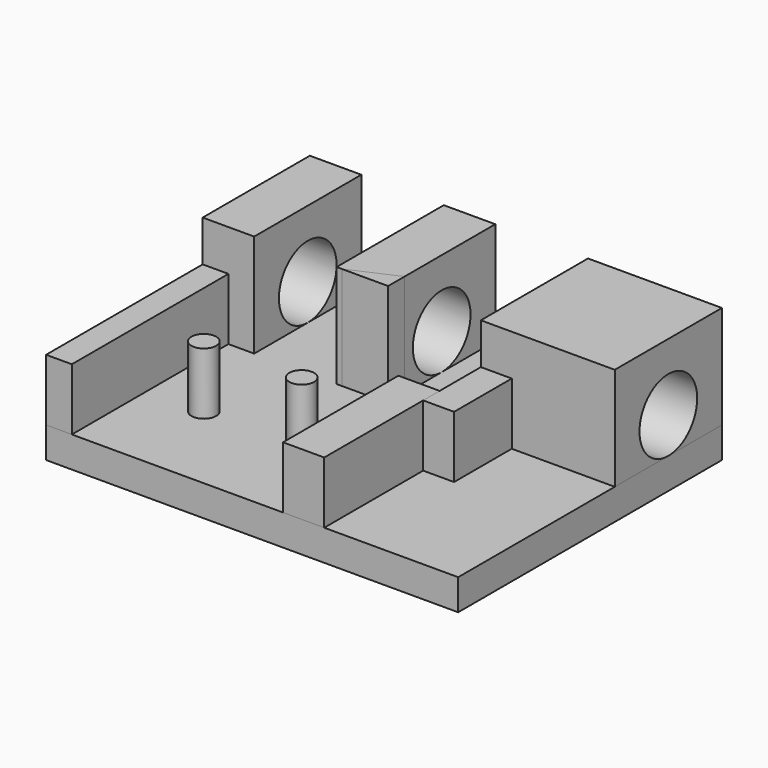
from build123d import *

# Parameters (mm, degrees)
BOX_W             = 40
BOX_H             = 32
BOX_DEPTH         = 3
BOX004_W          = 4
BOX004_H          = 14
BOX004_DEPTH      = 6
BOX005_W          = 2.5
BOX005_H          = 19
BOX005_DEPTH      = 6
CYLINDER002_R     = 1.2
CYLINDER002_DEPTH = 6
CYLINDER001_R     = 1.2
CYLINDER001_DEPTH = 6
CYLINDER_R        = 3.5
CYLINDER_DEPTH    = 40
BOX002_W          = 5
BOX002_H          = 13
BOX002_DEPTH      = 10
BOX003_W          = 13
BOX003_H          = 13
BOX003_DEPTH      = 10
BOX001_W          = 5
BOX001_H          = 13
BOX001_DEPTH      = 10
BOX006_W          = 3
BOX006_H          = 7
BOX006_DEPTH      = 6
CHAMFER_SIZE2     = 4.5
CHAMFER_SIZE      = 2


with BuildPart() as base_plate:
    # Box → Box (new body)
    with BuildSketch(Plane.XY):
        with Locations((20, 16)):
            Rectangle(BOX_W, BOX_H)
    extrude(amount=BOX_DEPTH)


with BuildPart() as switch_wall_right:
    # Box004 → Box004 (new body)
    with BuildSketch(Plane(origin=(23, 0, 3), x_dir=(1, 0, 0), z_dir=(0, 0, 1))):
        with Locations((2, 7)):
            Rectangle(BOX004_W, BOX004_H)
    extrude(amount=BOX004_DEPTH)


with BuildPart() as switch_wall_left:
    # Box005 → Box005 (new body)
    with BuildSketch(Plane.XY.offset(3)):
        with Locations((1.25, 9.5)):
            Rectangle(BOX005_W, BOX005_H)
    extrude(amount=BOX005_DEPTH)


with BuildPart() as cylinder002:
    # Cylinder002 → Cylinder002 (new body)
    with BuildSketch(Plane(origin=(17.45, 2.5, 0), x_dir=(1, 0, 0), z_dir=(0, 0, 1))):
        Circle(CYLINDER002_R)
    extrude(amount=CYLINDER002_DEPTH)


with BuildPart() as switch_pins:
    # Cylinder001 → Cylinder001 (new body)
    with BuildSketch(Plane(origin=(7.95, 2.5, 0), x_dir=(1, 0, 0), z_dir=(0, 0, 1))):
        Circle(CYLINDER001_R)
    extrude(amount=CYLINDER001_DEPTH)

    # Fusion: union Cylinder002
    add(cylinder002.part)


with BuildPart() as switch_pins_1:
    # Fusion placement: moved
    add(switch_pins.part.moved(Location((0, 6.7, 3))))


with BuildPart() as locking_pin_model:
    # Cylinder → Cylinder (new body)
    with BuildSketch(Plane(origin=(0, 25.5, 6.5), x_dir=(0, 0, -1), z_dir=(1, 0, 0))):
        Circle(CYLINDER_R)
    extrude(amount=CYLINDER_DEPTH)


with BuildPart() as box002:
    # Box002 → Box002 (new body)
    with BuildSketch(Plane(origin=(13, 19, 3), x_dir=(1, 0, 0), z_dir=(0, 0, 1))):
        with Locations((2.5, 6.5)):
            Rectangle(BOX002_W, BOX002_H)
    extrude(amount=BOX002_DEPTH)


with BuildPart() as box003:
    # Box003 → Box003 (new body)
    with BuildSketch(Plane(origin=(27, 19, 3), x_dir=(1, 0, 0), z_dir=(0, 0, 1))):
        with Locations((6.5, 6.5)):
            Rectangle(BOX003_W, BOX003_H)
    extrude(amount=BOX003_DEPTH)


with BuildPart() as box001:
    # Box001 → Box001 (new body)
    with BuildSketch(Plane(origin=(0, 19, 3), x_dir=(1, 0, 0), z_dir=(0, 0, 1))):
        with Locations((2.5, 6.5)):
            Rectangle(BOX001_W, BOX001_H)
    extrude(amount=BOX001_DEPTH)


with BuildPart() as obj1:
    # Fusion001 base: copy of Box001
    add(box001.part)

    # Fusion001: union Box002, Box003
    add(box002.part)
    add(box003.part)

    # Cut: cut Locking Pin Model
    add(locking_pin_model.part, mode=Mode.SUBTRACT)


with BuildPart() as dust_cover_block:
    # Box006 → Box006 (new body)
    with BuildSketch(Plane(origin=(27, 12, 3), x_dir=(1, 0, 0), z_dir=(0, 0, 1))):
        with Locations((1.5, 3.5)):
            Rectangle(BOX006_W, BOX006_H)
    extrude(amount=BOX006_DEPTH)


with BuildPart() as pin_blocks_holed:
    # Chamfer base: copy of Box002
    add(box002.part)

    # Chamfer
    chamfer_edges = [pin_blocks_holed.edges().sort_by_distance(p)[0] for p in [
        (18, 19, 8),
    ]]
    chamfer_side = pin_blocks_holed.faces().sort_by_distance((18, 25.5, 8))[0]
    chamfer(chamfer_edges, length=CHAMFER_SIZE, length2=CHAMFER_SIZE2, reference=chamfer_side)

    # Fusion002: union Box001, Box003
    add(box001.part)
    add(box003.part)

    # Cut001: cut Locking Pin Model
    add(locking_pin_model.part, mode=Mode.SUBTRACT)


solid = Compound([base_plate.part, switch_wall_right.part, switch_wall_left.part, switch_pins_1.part, obj1.part, dust_cover_block.part, pin_blocks_holed.part])
